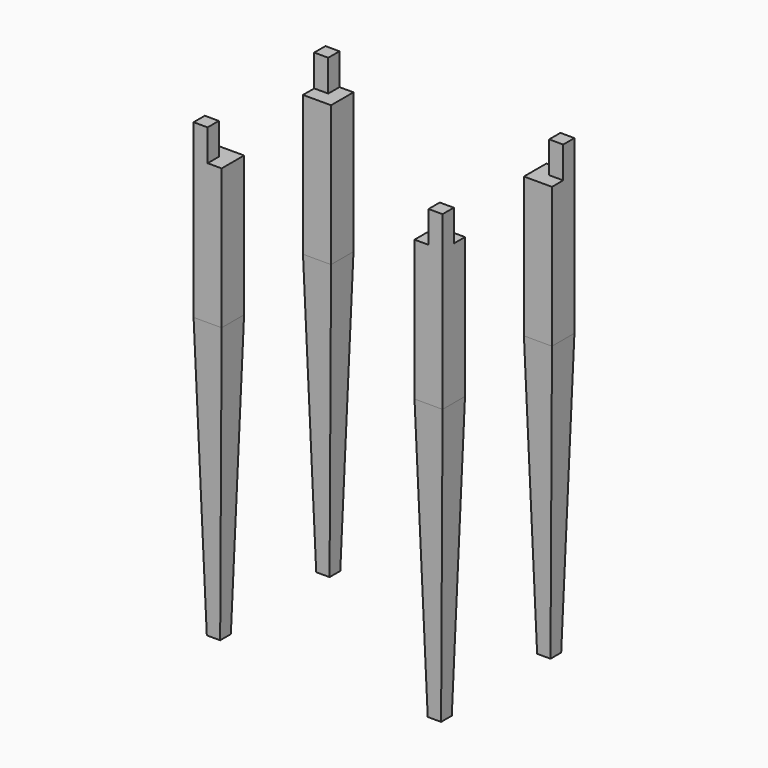
from build123d import *

# Parameters (mm, degrees)
F1_W      = 25.4
F1_H      = 25.4
F2_DEPTH  = 254
F3_DEPTH  = 57.15
F2_FACE_W = 50.8
F2_FACE_H = 50.8
F6_DEPTH  = 508
F6_TAPER  = 1.5
F4_FACE_W = 50.8
F4_FACE_H = 50.8
F5_FACE_W = 50.8
F5_FACE_H = 50.8


with BuildPart() as f2:
    # F1 (on Top) → F2 (new body)
    with BuildSketch(Plane.XY):
        Polygon((-174.625, 149.225), (-200.025, 149.225), (-200.025, 123.825), (-225.425, 123.825), (-225.425, 98.425), (-174.625, 98.425), align=None)
        with Locations((-212.725, 136.525)):
            Rectangle(F1_W, F1_H)
    extrude(amount=-F2_DEPTH)

    # F1 (on Top) → F3 (join)
    with BuildSketch(Plane.XY):
        with Locations((-212.725, 136.525)):
            Rectangle(F1_W, F1_H)
    extrude(amount=F3_DEPTH)


with BuildPart() as f4_1:
    # F4: instance of F2
    add(f2.part.mirror(Plane.YZ))


with BuildPart() as f5_1:
    # F5: instance of F2
    add(f2.part.mirror(Plane.XZ))

    # F5_face (on face) → F6, piece 4 (join)
    with BuildSketch(Plane(origin=(200.025, -123.825, -254), x_dir=(1, 0, 0), z_dir=(0, 0, -1))):
        with Locations((-400.05, 0)):
            Rectangle(F5_FACE_W, F5_FACE_H)
    extrude(amount=F6_DEPTH, taper=F6_TAPER)


with BuildPart() as f5_2:
    # F5: instance of F4_1
    add(f4_1.part.mirror(Plane.XZ))

    # F5_face (on face) → F6, piece 3 (join)
    with BuildSketch(Plane(origin=(200.025, -123.825, -254), x_dir=(1, 0, 0), z_dir=(0, 0, -1))):
        Rectangle(F5_FACE_W, F5_FACE_H)
    extrude(amount=F6_DEPTH, taper=F6_TAPER)


with BuildPart() as f2_1:
    add(f2.part)

    # F2_face (on face) → F6 (join)
    with BuildSketch(Plane(origin=(-200.025, 123.825, -254), x_dir=(1, 0, 0), z_dir=(0, 0, -1))):
        Rectangle(F2_FACE_W, F2_FACE_H)
    extrude(amount=F6_DEPTH, taper=F6_TAPER)


with BuildPart() as f4_1_1:
    add(f4_1.part)

    # F4_face (on face) → F6, piece 2 (join)
    with BuildSketch(Plane(origin=(200.025, 123.825, -254), x_dir=(1, 0, 0), z_dir=(0, 0, -1))):
        Rectangle(F4_FACE_W, F4_FACE_H)
    extrude(amount=F6_DEPTH, taper=F6_TAPER)


solid = Compound([f5_1.part, f5_2.part, f2_1.part, f4_1_1.part])
